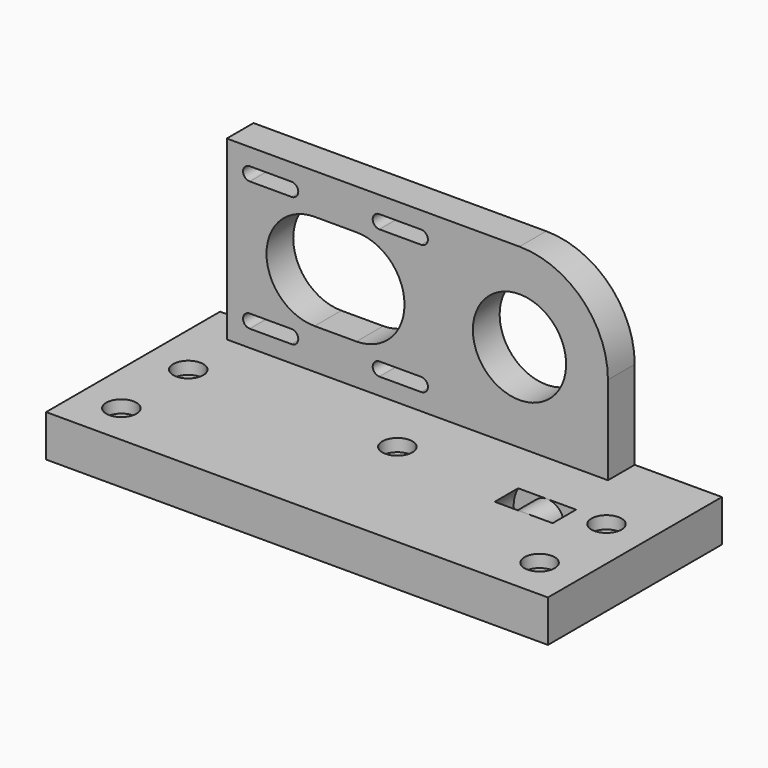
from build123d import *

# Parameters (mm, degrees)
CYLINDER001_R     = 4
CYLINDER001_DEPTH = 10
CYLINDER_R        = 8
CYLINDER_DEPTH    = 7
CUT_ROLL_ANGLE    = 90
SKETCH_W          = 120
SKETCH_H          = 52
SKETCH_R          = 2.1
PAD_DEPTH         = 10
SKETCH007_R       = 11.15
PAD001_DEPTH      = 8
SKETCH008_R       = 3.6
SKETCH008_R_2     = 2.1
POCKET_DEPTH      = 3


with BuildPart() as zylinder001:
    # Cylinder001 → Cylinder001 (new body)
    with BuildSketch(Plane.XY):
        Circle(CYLINDER001_R)
    extrude(amount=CYLINDER001_DEPTH)


with BuildPart() as cut:
    # Cylinder → Cylinder (new body)
    with BuildSketch(Plane.XY):
        Circle(CYLINDER_R)
    extrude(amount=CYLINDER_DEPTH)

    # Cut: cut Zylinder001
    add(zylinder001.part, mode=Mode.SUBTRACT)


with BuildPart() as cut_1:
    # Cut roll: moved
    add(cut.part.rotate(Axis((0, 0, 0), (1, 0, 0)), CUT_ROLL_ANGLE))


with BuildPart() as cut_2:
    # Cut placement: moved
    add(cut_1.part.moved(Location((35, 5, 6))))


with BuildPart() as cut001:
    # Sketch → Pad (new body)
    with BuildSketch(Plane.XY):
        Rectangle(SKETCH_W, SKETCH_H)
        with Locations((-50, -16)):
            Circle(SKETCH_R, mode=Mode.SUBTRACT)
        with Locations((-50, 4)):
            Circle(SKETCH_R, mode=Mode.SUBTRACT)
        with Locations((0, 4)):
            Circle(SKETCH_R, mode=Mode.SUBTRACT)
        with Locations((50, 4)):
            Circle(SKETCH_R, mode=Mode.SUBTRACT)
        with Locations((50, -16)):
            Circle(SKETCH_R, mode=Mode.SUBTRACT)
    extrude(amount=PAD_DEPTH)

    # Sketch007 → Pad001 (new body)
    with BuildSketch(Plane(origin=(0, 26, 0), x_dir=(-1, 0, 0), z_dir=(0, 1, 0))):
        with BuildLine():
            Line((0, 10), (52, 10))
            Line((52, 10), (52, 52.3))
            Line((52, 52.3), (0, 52.3))
            Line((0, 52.3), (-18.00006, 52.3))
            ThreePointArc((-18.00006, 52.3), (-32.95533, 46.105287), (-39.15, 31.15))
            Line((-39.15, 10), (-39.15, 31.15))
            Line((0, 10), (-39.15, 10))
        make_face()
        with Locations((-18, 31.15)):
            Circle(SKETCH007_R, mode=Mode.SUBTRACT)
        with BuildLine():
            ThreePointArc((21, 42.65), (9.5, 31.15), (21, 19.65))
            Line((21, 19.65), (31, 19.65))
            ThreePointArc((31, 19.65), (42.5, 31.15), (31, 42.65))
            Line((21, 42.65), (31, 42.65))
        make_face(mode=Mode.SUBTRACT)
        with BuildLine():
            ThreePointArc((36.5, 48.25), (34.9, 46.65), (36.5, 45.05))
            Line((36.5, 45.05), (46.5, 45.05))
            ThreePointArc((46.5, 45.05), (48.1, 46.65), (46.5, 48.25))
            Line((36.5, 48.25), (46.5, 48.25))
        make_face(mode=Mode.SUBTRACT)
        with BuildLine():
            ThreePointArc((5.5, 48.25), (3.9, 46.65), (5.5, 45.05))
            Line((5.5, 45.05), (15.5, 45.05))
            ThreePointArc((15.5, 45.05), (17.1, 46.65), (15.5, 48.25))
            Line((5.5, 48.25), (15.5, 48.25))
        make_face(mode=Mode.SUBTRACT)
        with BuildLine():
            ThreePointArc((5.5, 17.25), (3.9, 15.65), (5.5, 14.05))
            Line((5.5, 14.05), (15.5, 14.05))
            ThreePointArc((15.5, 14.05), (17.1, 15.65), (15.5, 17.25))
            Line((5.5, 17.25), (15.5, 17.25))
        make_face(mode=Mode.SUBTRACT)
        with BuildLine():
            ThreePointArc((36.5, 17.25), (34.9, 15.65), (36.5, 14.05))
            Line((36.5, 14.05), (46.5, 14.05))
            ThreePointArc((46.5, 14.05), (48.1, 15.65), (46.5, 17.25))
            Line((36.5, 17.25), (46.5, 17.25))
        make_face(mode=Mode.SUBTRACT)
    extrude(amount=-PAD001_DEPTH)

    # Sketch008 → Pocket (cut)
    with BuildSketch(Plane.XY.offset(10)):
        with Locations((-50, 4)):
            Circle(SKETCH008_R)
        with Locations((-50, 4)):
            Circle(SKETCH008_R_2, mode=Mode.SUBTRACT)
        with Locations((-50, -16)):
            Circle(SKETCH008_R)
        with Locations((-50, -16)):
            Circle(SKETCH008_R_2, mode=Mode.SUBTRACT)
        with Locations((0, 4)):
            Circle(SKETCH008_R)
        with Locations((0, 4)):
            Circle(SKETCH008_R_2, mode=Mode.SUBTRACT)
        with Locations((50, 4)):
            Circle(SKETCH008_R)
        with Locations((50, 4)):
            Circle(SKETCH008_R_2, mode=Mode.SUBTRACT)
        with Locations((50, -16)):
            Circle(SKETCH008_R)
        with Locations((50, -16)):
            Circle(SKETCH008_R_2, mode=Mode.SUBTRACT)
    extrude(amount=-POCKET_DEPTH, mode=Mode.SUBTRACT)

    # Cut001: cut Cut
    add(cut_2.part, mode=Mode.SUBTRACT)


solid = cut001.part
